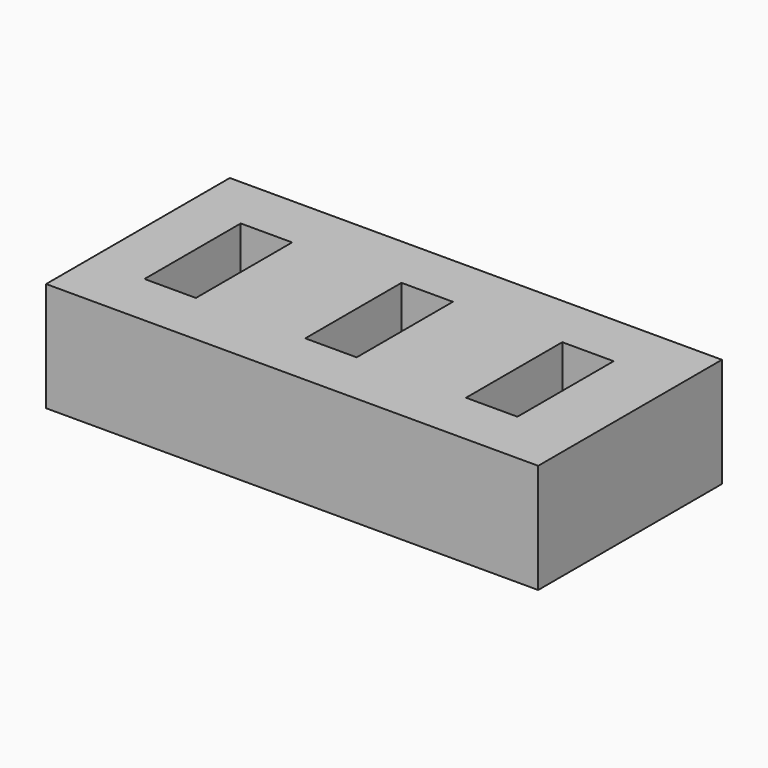
from build123d import *

# Parameters (mm, degrees)
BOX_W        = 4.7
BOX_H        = 11
BOX_DEPTH    = 13
BOX001_W     = 4.7
BOX001_H     = 11
BOX001_DEPTH = 13
BOX002_W     = 4.7
BOX002_H     = 11
BOX002_DEPTH = 13
BOX003_W     = 45
BOX003_H     = 21
BOX003_DEPTH = 10


with BuildPart() as cub:
    # Box → Box (new body)
    with BuildSketch(Plane.XY.offset(-1)):
        with Locations((2.35, 5.5)):
            Rectangle(BOX_W, BOX_H)
    extrude(amount=BOX_DEPTH)


with BuildPart() as cub001:
    # Box001 → Box001 (new body)
    with BuildSketch(Plane(origin=(14.7, 0, -1), x_dir=(1, 0, 0), z_dir=(0, 0, 1))):
        with Locations((2.35, 5.5)):
            Rectangle(BOX001_W, BOX001_H)
    extrude(amount=BOX001_DEPTH)


with BuildPart() as cub002:
    # Box002 → Box002 (new body)
    with BuildSketch(Plane(origin=(29.4, 0, -1), x_dir=(1, 0, 0), z_dir=(0, 0, 1))):
        with Locations((2.35, 5.5)):
            Rectangle(BOX002_W, BOX002_H)
    extrude(amount=BOX002_DEPTH)


with BuildPart() as cut002:
    # Box003 → Box003 (new body)
    with BuildSketch(Plane(origin=(-5, -5, 0), x_dir=(1, 0, 0), z_dir=(0, 0, 1))):
        with Locations((22.5, 10.5)):
            Rectangle(BOX003_W, BOX003_H)
    extrude(amount=BOX003_DEPTH)

    # Cut: cut Cub002
    add(cub002.part, mode=Mode.SUBTRACT)

    # Cut001: cut Cub001
    add(cub001.part, mode=Mode.SUBTRACT)

    # Cut002: cut Cub
    add(cub.part, mode=Mode.SUBTRACT)


solid = cut002.part
